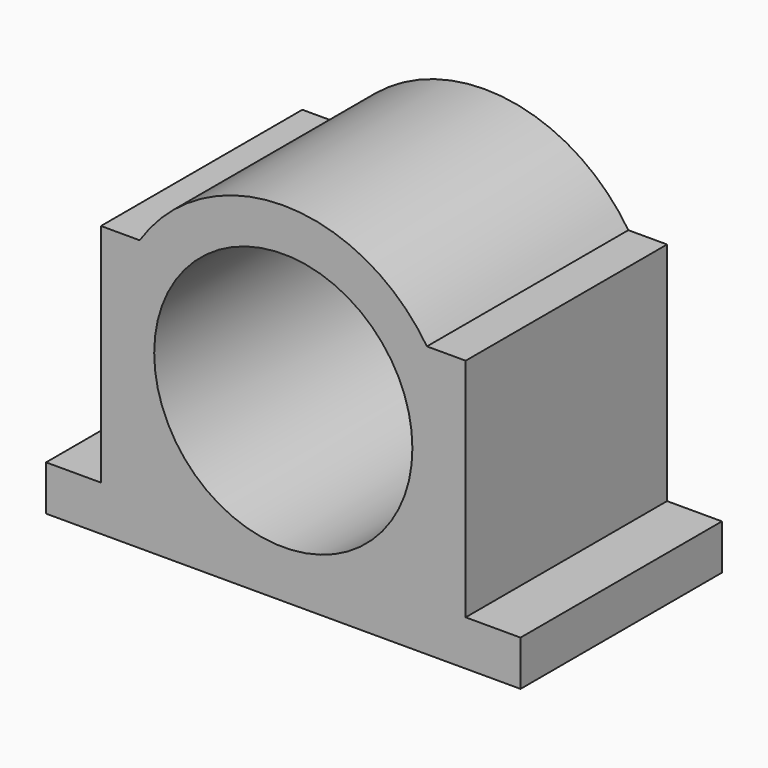
from build123d import *

# Parameters (mm, degrees)
F0_R     = 40
F1_DEPTH = 78


with BuildPart() as f1:
    # F0 (on Front) → F1 (new body)
    with BuildSketch(Plane.XZ):
        with BuildLine():
            Line((-147, 0), (0, 0))
            Line((0, 0), (0, 14))
            Line((0, 14), (-17, 14))
            Line((-17, 14), (-17, 84))
            Line((-17, 84), (-29, 84))
            ThreePointArc((-29, 84), (-73.5, 108), (-118, 84))
            Line((-118, 84), (-130, 84))
            Line((-130, 84), (-130, 14))
            Line((-130, 14), (-147, 14))
            Line((-147, 14), (-147, 0))
        make_face()
        with Locations((-73.5, 54.744792)):
            Circle(F0_R, mode=Mode.SUBTRACT)
    extrude(amount=F1_DEPTH)


solid = f1.part
